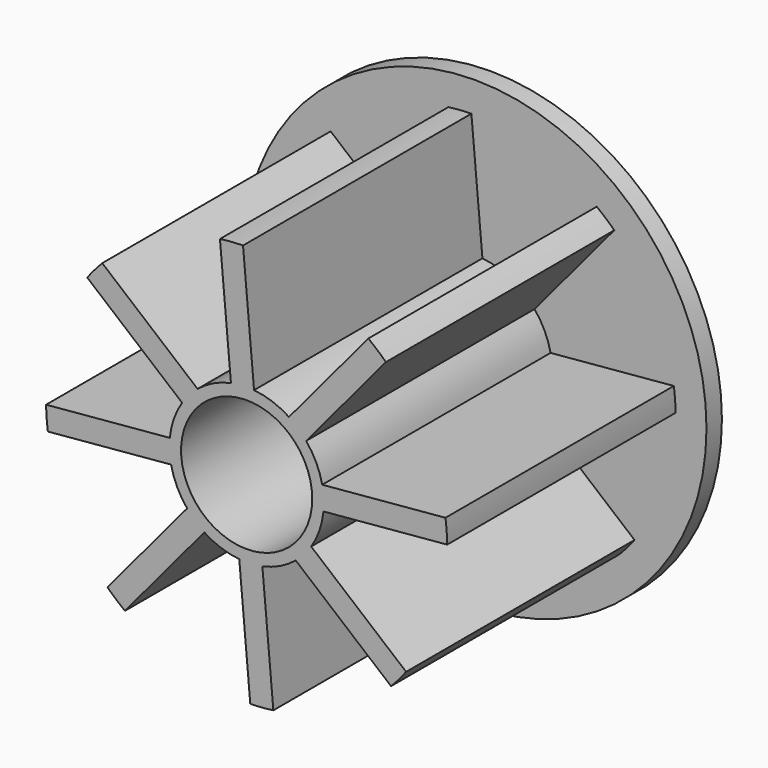
from build123d import *

# Parameters (mm, degrees)
F0_R     = 30
F0_R_2   = 8.5
F1_DEPTH = 2.5
F3_DEPTH = 37
F4_DEPTH = 40


with BuildPart() as f1:
    # F0 (on Front) → F1 (new body)
    with BuildSketch(Plane.XZ):
        Circle(F0_R)
        Circle(F0_R_2, mode=Mode.SUBTRACT)
    extrude(amount=-F1_DEPTH)

    # F2 (on Front) → F3 (join)
    with BuildSketch(Plane.XZ):
        with BuildLine():
            ThreePointArc((9.9539621754, -0.9584555339), (9.9884839128, -0.4797802861), (10, 0))
            ThreePointArc((10, 0), (9.9474412154, 1.0239205366), (9.790317347, 2.0370778693))
            ThreePointArc((9.790317347, 2.0370778693), (9.0162927853, 4.3250970404), (7.7162445614, 6.3607837464))
            ThreePointArc((7.7162445614, 6.3607837464), (6.6748253827, 7.4462545021), (5.4823682108, 8.3632313612))
            ThreePointArc((5.4823682108, 8.3632313612), (3.3171763231, 9.4337872163), (0.9584555339, 9.9539621754))
            ThreePointArc((0.9584555339, 9.9539621754), (-0.5454827615, 9.9851113442), (-2.0370778693, 9.790317347))
            ThreePointArc((-2.0370778693, 9.790317347), (-4.3250970404, 9.0162927853), (-6.3607837464, 7.7162445614))
            ThreePointArc((-6.3607837464, 7.7162445614), (-7.4462545021, 6.6748253827), (-8.3632313612, 5.4823682108))
            ThreePointArc((-8.3632313612, 5.4823682108), (-9.4337872163, 3.3171763231), (-9.9539621754, 0.9584555339))
            ThreePointArc((-9.9539621754, 0.9584555339), (-9.9851113442, -0.5454827615), (-9.790317347, -2.0370778693))
            ThreePointArc((-9.790317347, -2.0370778693), (-9.0162927853, -4.3250970404), (-7.7162445614, -6.3607837464))
            ThreePointArc((-7.7162445614, -6.3607837464), (-6.6748253827, -7.4462545021), (-5.4823682108, -8.3632313612))
            ThreePointArc((-5.4823682108, -8.3632313612), (-3.3171763231, -9.4337872163), (-0.9584555339, -9.9539621754))
            ThreePointArc((-0.9584555339, -9.9539621754), (0.5454827615, -9.9851113442), (2.0370778693, -9.790317347))
            ThreePointArc((2.0370778693, -9.790317347), (4.3250970404, -9.0162927853), (6.3607837464, -7.7162445614))
            ThreePointArc((6.3607837464, -7.7162445614), (7.4462545021, -6.6748253827), (8.3632313612, -5.4823682108))
            ThreePointArc((8.3632313612, -5.4823682108), (9.4337872163, -3.3171763231), (9.9539621754, -0.9584555339))
        make_face()
        with BuildLine():
            ThreePointArc((-8.3632313612, 5.4823682108), (-7.4462545021, 6.6748253827), (-6.3607837464, 7.7162445614))
            Line((-6.3607837464, 7.7162445614), (-18.7140811189, 18.0494644761))
            ThreePointArc((-18.7140811189, 18.0494644761), (-19.7242264231, 16.9397429736), (-20.6686668466, 15.7735921965))
            Line((-20.6686668466, 15.7735921965), (-8.3632313612, 5.4823682108))
        make_face()
        with BuildLine():
            Line((-15.7735921965, -20.6686668466), (-5.4823682108, -8.3632313612))
            ThreePointArc((-5.4823682108, -8.3632313612), (-6.6748253827, -7.4462545021), (-7.7162445614, -6.3607837464))
            Line((-7.7162445614, -6.3607837464), (-18.0494644761, -18.7140811189))
            ThreePointArc((-18.0494644761, -18.7140811189), (-16.9397429736, -19.7242264231), (-15.7735921965, -20.6686668466))
        make_face()
        with BuildLine():
            Line((3.4613404795, -25.7685684912), (2.0370778693, -9.790317347))
            ThreePointArc((2.0370778693, -9.790317347), (0.5454827615, -9.9851113442), (-0.9584555339, -9.9539621754))
            Line((-0.9584555339, -9.9539621754), (0.469954935, -25.9957523907))
            ThreePointArc((0.469954935, -25.9957523907), (1.9689271292, -25.9253413856), (3.4613404795, -25.7685684912))
        make_face()
        with BuildLine():
            Line((20.6686668466, -15.7735921965), (8.3632313612, -5.4823682108))
            ThreePointArc((8.3632313612, -5.4823682108), (7.4462545021, -6.6748253827), (6.3607837464, -7.7162445614))
            Line((6.3607837464, -7.7162445614), (18.7140811189, -18.0494644761))
            ThreePointArc((18.7140811189, -18.0494644761), (19.7242264231, -16.9397429736), (20.6686668466, -15.7735921965))
        make_face()
        with BuildLine():
            ThreePointArc((9.790317347, 2.0370778693), (9.9474412154, 1.0239205366), (10, 0))
            ThreePointArc((10, 0), (9.9884839128, -0.4797802861), (9.9539621754, -0.9584555339))
            Line((9.9539621754, -0.9584555339), (25.9957523907, 0.469954935))
            ThreePointArc((25.9957523907, 0.469954935), (25.9253413856, 1.9689271292), (25.7685684912, 3.4613404795))
            Line((25.7685684912, 3.4613404795), (9.790317347, 2.0370778693))
        make_face()
        with BuildLine():
            ThreePointArc((5.4823682108, 8.3632313612), (6.6748253827, 7.4462545021), (7.7162445614, 6.3607837464))
            Line((7.7162445614, 6.3607837464), (18.0494644761, 18.7140811189))
            ThreePointArc((18.0494644761, 18.7140811189), (16.9397429736, 19.7242264231), (15.7735921965, 20.6686668466))
            Line((15.7735921965, 20.6686668466), (5.4823682108, 8.3632313612))
        make_face()
        with BuildLine():
            ThreePointArc((-2.0370778693, 9.790317347), (-0.5454827615, 9.9851113442), (0.9584555339, 9.9539621754))
            Line((0.9584555339, 9.9539621754), (-0.469954935, 25.9957523907))
            ThreePointArc((-0.469954935, 25.9957523907), (-1.9689271292, 25.9253413856), (-3.4613404795, 25.7685684912))
            Line((-3.4613404795, 25.7685684912), (-2.0370778693, 9.790317347))
        make_face()
        with BuildLine():
            ThreePointArc((-9.790317347, -2.0370778693), (-9.9851113442, -0.5454827615), (-9.9539621754, 0.9584555339))
            Line((-9.9539621754, 0.9584555339), (-25.9957523907, -0.469954935))
            ThreePointArc((-25.9957523907, -0.469954935), (-25.9253413856, -1.9689271292), (-25.7685684912, -3.4613404795))
            Line((-25.7685684912, -3.4613404795), (-9.790317347, -2.0370778693))
        make_face()
    extrude(amount=F3_DEPTH)

    # F4 (cut): a face of the model
    f4_faces = [f1.faces().sort_by_distance(p)[0] for p in [
        (0, 0, 0),
    ]]
    extrude(f4_faces, amount=-F4_DEPTH, mode=Mode.SUBTRACT)


solid = f1.part
